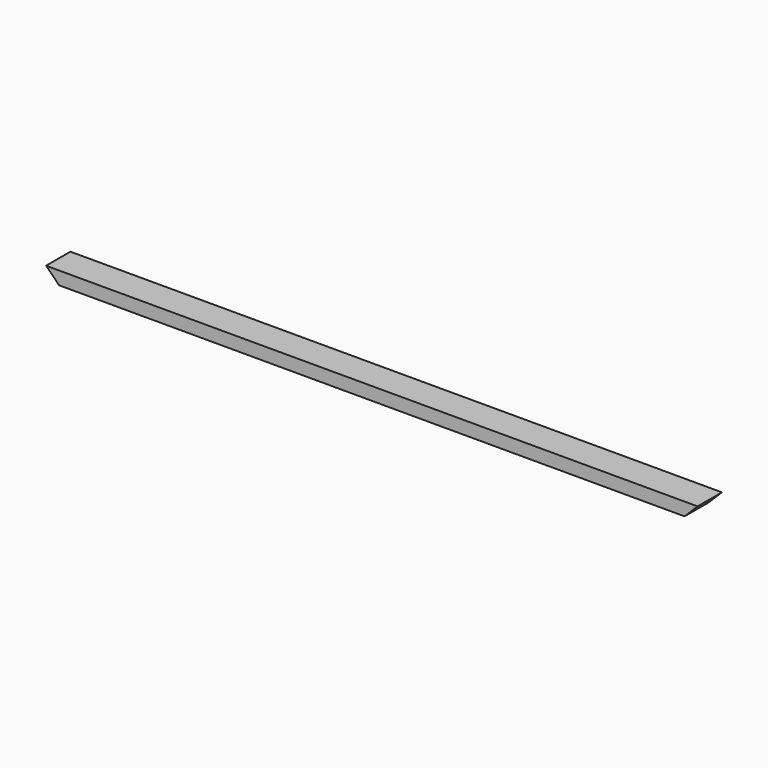
from build123d import *

# Parameters (mm, degrees)
F0_W     = 1905
F0_H     = 38.1
F1_DEPTH = 88.9
F3_DEPTH = 88.901


with BuildPart() as f1:
    # F0 (on Front) → F1 (new body)
    with BuildSketch(Plane.XZ):
        Rectangle(F0_W, F0_H)
    extrude(amount=F1_DEPTH)

    # F2 (on face) → F3 (cut, through all)
    with BuildSketch(Plane.XZ.offset(88.9)):
        Polygon((-914.4, -19.05), (-952.5, 19.05), (-952.5, -19.05), align=None)
        Polygon((952.5, -19.05), (952.5, 19.05), (914.4, -19.05), align=None)
    extrude(amount=-F3_DEPTH, mode=Mode.SUBTRACT)


solid = f1.part
